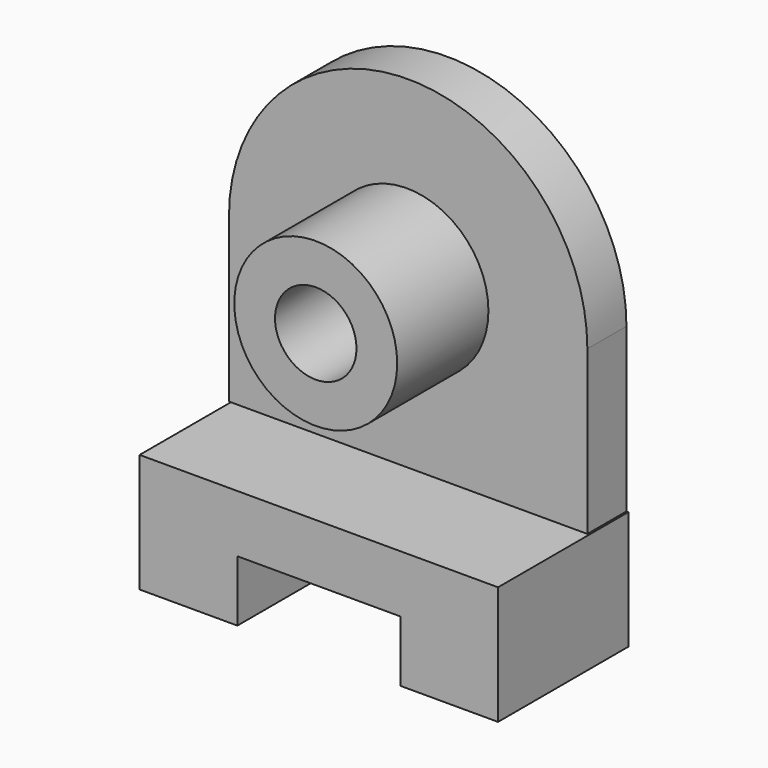
from build123d import *

# Parameters (mm, degrees)
F1_DEPTH = 12
F2_R     = 20
F3_DEPTH = 28
F5_DEPTH = 40
F6_R     = 10
F7_DEPTH = 70


with BuildPart() as f1:
    # F0 (on Front) → F1 (new body)
    with BuildSketch(Plane.XZ):
        with BuildLine():
            Line((44, 0), (44, 40))
            ThreePointArc((44, 40), (0, 84), (-44, 40))
            Line((-44, 40), (-44, 0))
            Line((-44, 0), (44, 0))
        make_face()
    extrude(amount=F1_DEPTH)

    # F2 (on face) → F3 (join)
    with BuildSketch(Plane.XZ.offset(12)):
        with Locations((-0.289364, 40.312858)):
            Circle(F2_R)
    extrude(amount=F3_DEPTH)

    # F4 (on Front) → F5 (join)
    with BuildSketch(Plane.XZ):
        Polygon((44.469752, -29.099998), (44.469752, 0), (-43.530248, 0), (-43.530248, -29.099998), (-19.530248, -29.099998), (-19.530248, -14.099998), (20.469752, -14.099998), (20.469752, -29.099998), align=None)
    extrude(amount=F5_DEPTH)

    # F6 (on face) → F7 (cut)
    with BuildSketch(Plane.XZ.offset(40)):
        with Locations((-0.289364, 40.312858)):
            Circle(F6_R)
    extrude(amount=-F7_DEPTH, mode=Mode.SUBTRACT)


solid = f1.part
